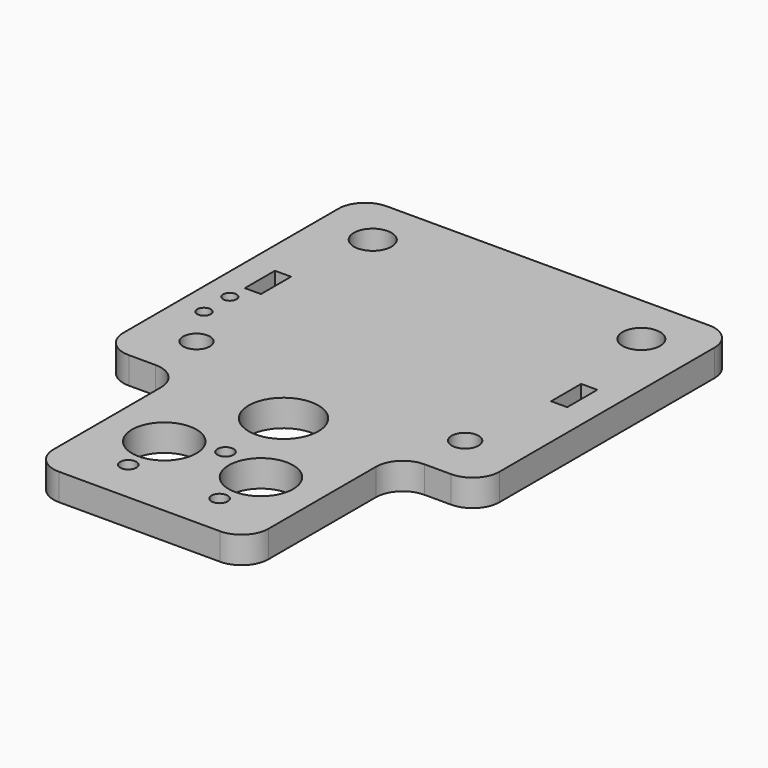
from build123d import *

# Parameters (mm, degrees)
F0_R     = 2.5
F0_R_2   = 3.5
F0_W     = 40
F0_H     = 35
F0_R_3   = 1.5
F1_DEPTH = 5
F2_R     = 6
F2_R_2   = 6.5
F3_DEPTH = 5.001
F4_W     = 3
F4_H     = 7
F5_DEPTH = 5.001
F6_R     = 1.25
F7_DEPTH = 5.001
F8_R     = 5


with BuildPart() as f1:
    # F0 (on Top) → F1 (new body)
    with BuildSketch(Plane.XY):
        Polygon((35, -30), (35, 30), (-35, 30), (-35, -30), (-20, -30), (20, -30), align=None)
        with Locations((-25, -20.5)):
            Circle(F0_R, mode=Mode.SUBTRACT)
        with Locations((25, -20.5)):
            Circle(F0_R, mode=Mode.SUBTRACT)
        with Locations((-25, 20.5)):
            Circle(F0_R_2, mode=Mode.SUBTRACT)
        with Locations((25, 20.5)):
            Circle(F0_R_2, mode=Mode.SUBTRACT)
        with Locations((0, -47.5)):
            Rectangle(F0_W, F0_H)
        with Locations((-8.5, -57)):
            Circle(F0_R_3, mode=Mode.SUBTRACT)
        with Locations((8.5, -57)):
            Circle(F0_R_3, mode=Mode.SUBTRACT)
        with Locations((0, -45)):
            Circle(F0_R_3, mode=Mode.SUBTRACT)
    extrude(amount=F1_DEPTH)

    # F2 (on face) → F3 (cut, through all)
    with BuildSketch(Plane.XY.offset(5)):
        with Locations((-9, -48)):
            Circle(F2_R)
        with Locations((9, -48)):
            Circle(F2_R)
        with Locations((0, -31.5)):
            Circle(F2_R_2)
    extrude(amount=-F3_DEPTH, mode=Mode.SUBTRACT)

    # F4 (on face) → F5 (cut, through all)
    with BuildSketch(Plane.XY.offset(5)):
        with Locations((28.5, 0.5)):
            Rectangle(F4_W, F4_H)
        with Locations((-28.5, 0.5)):
            Rectangle(F4_W, F4_H)
    extrude(amount=-F5_DEPTH, mode=Mode.SUBTRACT)

    # F6 (on face) → F7 (cut, through all)
    with BuildSketch(Plane.XY.offset(5)):
        with Locations((-30, -6.5)):
            Circle(F6_R)
        with Locations((-30, -12.5)):
            Circle(F6_R)
    extrude(amount=-F7_DEPTH, mode=Mode.SUBTRACT)

    # F8
    f8_edges = [f1.edges().sort_by_distance(p)[0] for p in [
        (-20, -30, 2.5),
        (-20, -65, 2.5),
        (20, -65, 2.5),
        (20, -30, 2.5),
        (35, -30, 2.5),
        (35, 30, 2.5),
        (-35, 30, 2.5),
        (-35, -30, 2.5),
    ]]
    fillet(f8_edges, radius=F8_R)


solid = f1.part
